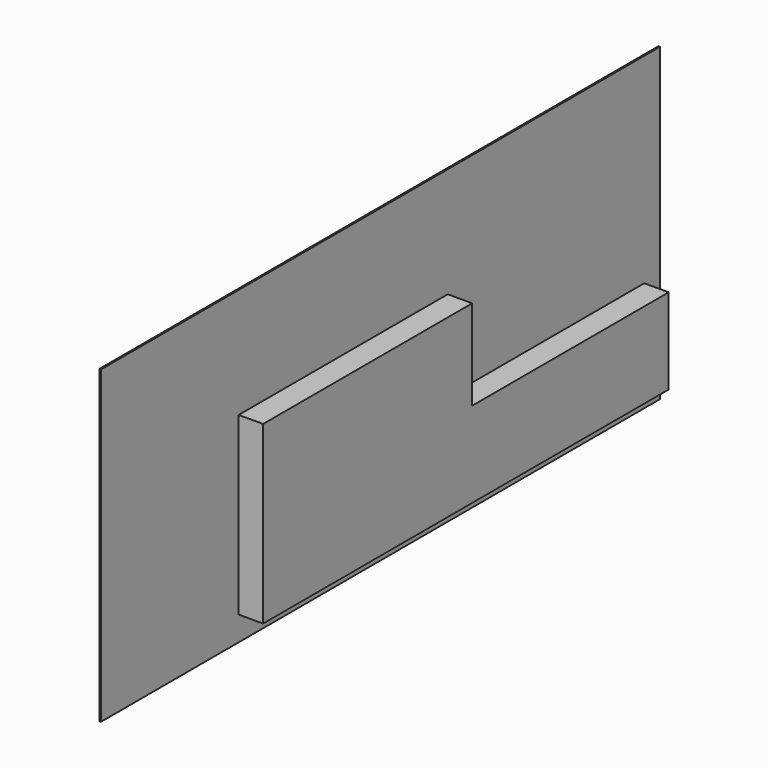
from build123d import *

# Parameters (mm, degrees)
BOX012_W     = 17
BOX012_H     = 171
BOX012_DEPTH = 115
BOX013_W     = 1
BOX013_H     = 457.5
BOX013_DEPTH = 203
BOX011_W     = 17
BOX011_H     = 160.75
BOX011_DEPTH = 56


with BuildPart() as slots:
    # Box012 → Box012 (new body)
    with BuildSketch(Plane(origin=(-74, -313.25, -29.5), x_dir=(1, 0, 0), z_dir=(0, 0, 1))):
        with Locations((8.5, 85.5)):
            Rectangle(BOX012_W, BOX012_H)
    extrude(amount=BOX012_DEPTH)


with BuildPart() as back:
    # Box013 → Box013 (new body)
    with BuildSketch(Plane(origin=(-74, -426, -45.5), x_dir=(1, 0, 0), z_dir=(0, 0, 1))):
        with Locations((0.5, 228.75)):
            Rectangle(BOX013_W, BOX013_H)
    extrude(amount=BOX013_DEPTH)


with BuildPart() as tower_back:
    # Box011 → Box011 (new body)
    with BuildSketch(Plane(origin=(-74, -142.25, -29.5), x_dir=(1, 0, 0), z_dir=(0, 0, 1))):
        with Locations((8.5, 80.375)):
            Rectangle(BOX011_W, BOX011_H)
    extrude(amount=BOX011_DEPTH)

    # Fusion037: union Slots, Back
    add(slots.part)
    add(back.part)


solid = tower_back.part
